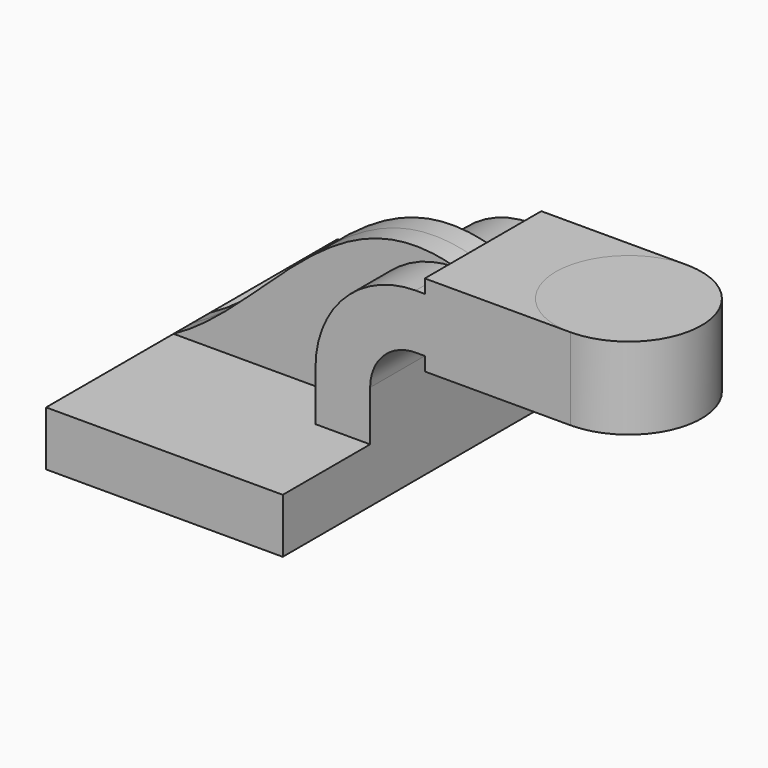
from build123d import *

# Parameters (mm, degrees)
F1_DEPTH = 63.5
F0_W     = 25.4
F0_H     = 28.575
F0_W_2   = 21.3542111911
F0_H_2   = 19.05
F2_DEPTH = 25.4
F3_DEPTH = 7.9375


with BuildPart() as f1:
    # F0 (on Front) → F1 (new body, symmetric)
    with BuildSketch(Plane.XZ):
        Polygon((-41.275, 9.525), (-41.275, -9.525), (41.275, -9.525), (41.275, 9.525), (22.225, 9.525), align=None)
    extrude(amount=F1_DEPTH, both=True)

    # F0 (on Front) → F2 (join, symmetric)
    with BuildSketch(Plane.XZ):
        Polygon((60.325, 66.675), (60.325, 61.9252), (81.6792111911, 61.9252), (81.6792111911, 42.8752), (60.325, 42.8752), (60.325, 38.1), (85.725, 38.1), (85.725, 66.675), align=None)
        with Locations((98.425, 52.3875)):
            Rectangle(F0_W, F0_H)
        with Locations((71.0021055956, 52.4002)):
            Rectangle(F0_W_2, F0_H_2)
        with BuildLine():
            Line((22.225, 9.525), (41.275, 9.525))
            Line((41.275, 9.525), (41.275, 27.0002))
            ThreePointArc((41.275, 27.0002), (45.9246798487, 38.2255201513), (57.15, 42.8752))
            Line((57.15, 42.8752), (60.325, 42.8752))
            Line((60.325, 42.8752), (60.325, 61.9252))
            Line((60.325, 61.9252), (57.15, 61.9252))
            ThreePointArc((57.15, 61.9252), (32.4542956671, 51.6959043329), (22.225, 27.0002))
            Line((22.225, 27.0002), (22.225, 9.525))
        make_face()
        Polygon((60.325, 66.675), (60.325, 61.9252), (81.6792111911, 61.9252), (81.6792111911, 42.8752), (60.325, 42.8752), (60.325, 38.1), (85.725, 38.1), (85.725, 66.675), align=None)
    extrude(amount=F2_DEPTH, both=True)

    # F0 (on Front) → F3 (join, symmetric)
    with BuildSketch(Plane.XZ):
        with BuildLine():
            add(Edge.make_bspline(
                [(-41.275, 9.525), (-8.4666666667, 26.9917333333), (14.3675776199, 74.4502022862), (57.15, 61.9252)],
                knots=[0, 0, 0, 0, 111.5045361635, 111.5045361635, 111.5045361635, 111.5045361635], degree=3))
            Line((-41.275, 9.525), (22.225, 9.525))
            Line((22.225, 9.525), (22.225, 27.0002))
            ThreePointArc((22.225, 27.0002), (32.4542956671, 51.6959043329), (57.15, 61.9252))
        make_face()
    extrude(amount=F3_DEPTH, both=True)


with BuildPart() as f4:
    # F0 (on Front) → F4 (revolve)
    with BuildSketch(Plane.XZ):
        with Locations((98.425, 52.3875)):
            Rectangle(F0_W, F0_H)
    revolve(axis=Axis((111.125, 0, 52.3875), (0, 0, 1)))


solid = Compound([f1.part, f4.part])
